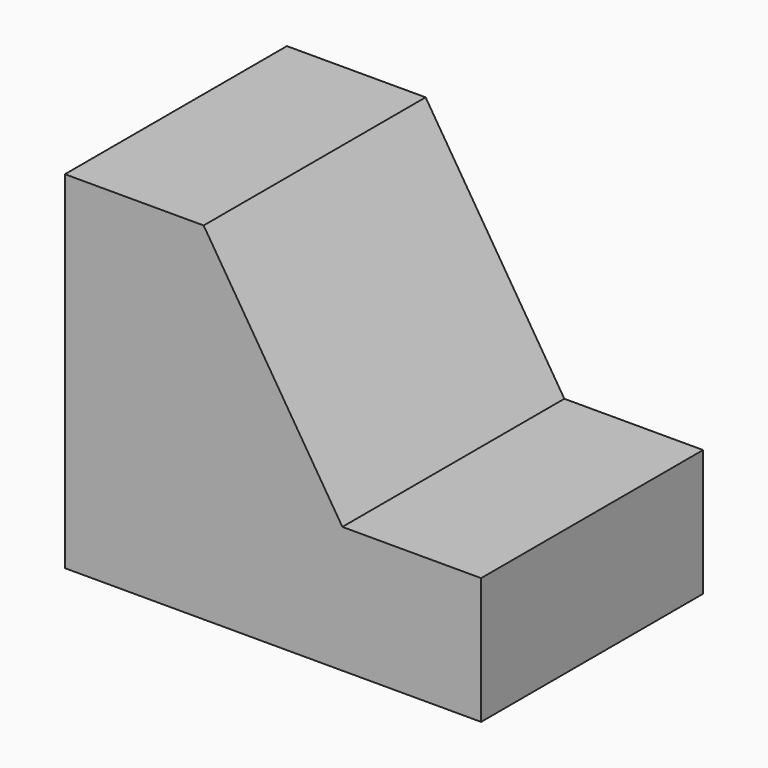
from build123d import *

# Parameters (mm, degrees)
F0_W     = 38.1
F0_H     = 31.75
F1_DEPTH = 25.4
F3_DEPTH = 25.401


with BuildPart() as f1:
    # F0 (on Front) → F1 (new body)
    with BuildSketch(Plane.XZ):
        with Locations((-19.05, 15.875)):
            Rectangle(F0_W, F0_H)
    extrude(amount=F1_DEPTH)

    # F2 (on face) → F3 (cut, through all)
    with BuildSketch(Plane(origin=(0, 0, 0), x_dir=(-1, 0, 0), z_dir=(0, 1, 0))):
        Polygon((0, 31.75), (0, 11.58768), (12.7, 11.58768), (25.4, 31.75), align=None)
    extrude(amount=-F3_DEPTH, mode=Mode.SUBTRACT)


solid = f1.part
